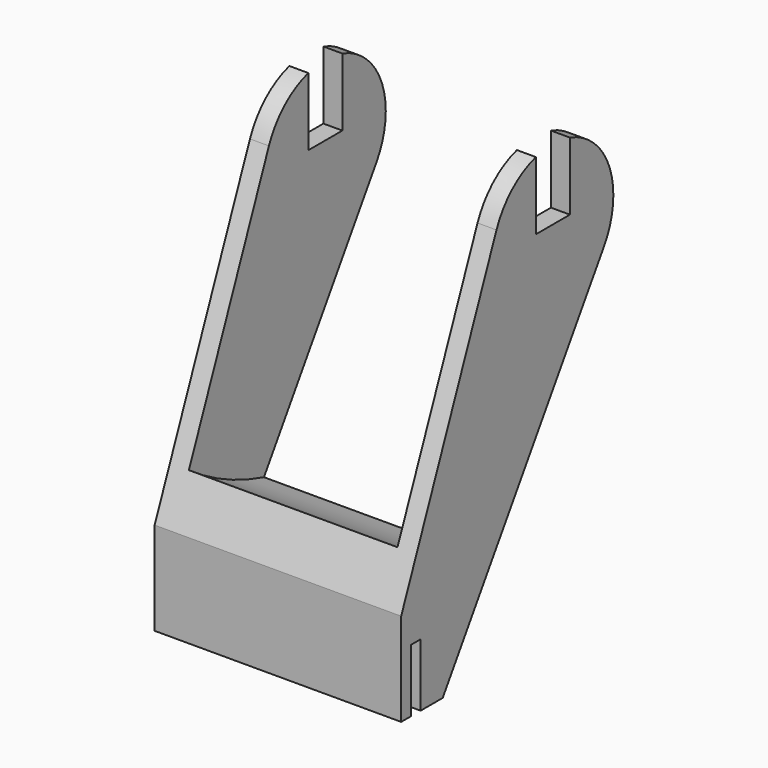
from build123d import *

# Parameters (mm, degrees)
F1_DEPTH      = 65
F2_R          = 155
F3_DEPTH      = 55
F4_W          = 22.4599032382
F4_H          = 50
F5_DEPTH      = 65.001
F5_DEPTH_BACK = 65.001


with BuildPart() as f1:
    # F0 (on Right) → F1 (new body, symmetric)
    with BuildSketch(Plane.YZ):
        with BuildLine():
            Line((0, 49.1090789437), (0, 0))
            Line((0, 0), (6.4133200794, 0))
            Line((6.4133200794, 0), (6.4133200794, 33.1709496677))
            Line((6.4133200794, 33.1709496677), (12.8133200794, 33.1709496677))
            Line((12.8133200794, 33.1709496677), (12.8133200794, 0))
            Line((12.8133200794, 0), (27.3600688376, 0))
            Line((27.3600688376, 0), (133.5539043449, 166.1648069956))
            ThreePointArc((133.5539043449, 166.1648069956), (81.4380712008, 152.1940833921), (62.8215606058, 202.8366219893))
            Line((62.8215606058, 202.8366219893), (0, 49.1090789437))
        make_face()
        with BuildLine():
            ThreePointArc((139.8490899801, 187.705129385), (107.5594344934, 226.9549776329), (62.8215606058, 202.8366219893))
            ThreePointArc((62.8215606058, 202.8366219893), (81.4380712008, 152.1940833921), (133.5539043449, 166.1648069956))
            ThreePointArc((133.5539043449, 166.1648069956), (138.2430515795, 176.4844470214), (139.8490899801, 187.705129385))
        make_face()
    extrude(amount=F1_DEPTH, both=True)

    # F2 (on Right) → F3 (cut, symmetric)
    with BuildSketch(Plane.YZ):
        with Locations((100, 200)):
            Circle(F2_R)
    extrude(amount=F3_DEPTH, both=True, mode=Mode.SUBTRACT)

    # F4 (on Right) → F5 (cut, two sides)
    with BuildSketch(Plane.YZ) as f5_sk:
        with Locations((100, 215.2752558307)):
            Rectangle(F4_W, F4_H)
    extrude(amount=-F5_DEPTH, mode=Mode.SUBTRACT)
    extrude(f5_sk.sketch, amount=F5_DEPTH_BACK, mode=Mode.SUBTRACT)


solid = f1.part
